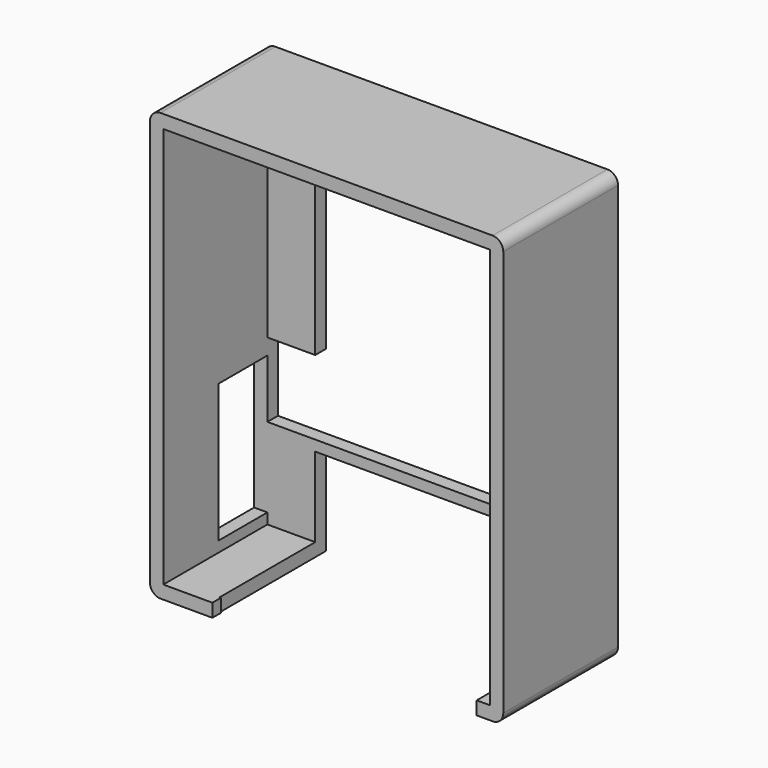
from build123d import *

# Parameters (mm, degrees)
F0_W      = 66.5
F0_H      = 80.5
F1_DEPTH  = 27
F2_T      = -2.5
F3_R      = 2
F4_W      = 49.75
F4_H      = 24.5
F5_DEPTH  = 25
F6_W      = 45.5
F6_H      = 48.5
F7_DEPTH  = 25
F8_W      = 48
F8_H      = 17.5
F9_DEPTH  = 25
F10_W     = 11.5
F10_H     = 26
F11_DEPTH = 25
F12_W     = 9
F12_H     = 14
F13_DEPTH = 25


with BuildPart() as f1:
    # F0 (on Front) → F1 (new body)
    with BuildSketch(Plane.XZ):
        with Locations((30.75, 37.75)):
            Rectangle(F0_W, F0_H)
        with Locations((30.75, 37.75)):
            Rectangle(F0_W, F0_H)
    extrude(amount=F1_DEPTH)

    # F2
    f2_openings = [f1.faces().sort_by_distance(p)[0] for p in [
        (30.75, -27, 37.75),
    ]]
    offset(amount=F2_T, openings=f2_openings)

    # F3
    f3_edges = [f1.edges().sort_by_distance(p)[0] for p in [
        (64, -13.5, 78),
        (-2.5, -13.5, 78),
        (64, -13.5, -2.5),
        (-2.5, -13.5, -2.5),
    ]]
    fillet(f3_edges, radius=F3_R)

    # F4 (on face) → F5 (cut)
    with BuildSketch(Plane.XY):
        with Locations((34.125, -14.75)):
            Rectangle(F4_W, F4_H)
    extrude(amount=-F5_DEPTH, mode=Mode.SUBTRACT)

    # F6 (on face) → F7 (cut)
    with BuildSketch(Plane.XZ.offset(2.5)):
        with Locations((31.75, 41.25)):
            Rectangle(F6_W, F6_H)
    extrude(amount=-F7_DEPTH, mode=Mode.SUBTRACT)

    # F8 (on face) → F9 (cut)
    with BuildSketch(Plane(origin=(0, 0, 0), x_dir=(-1, 0, 0), z_dir=(0, 1, 0))):
        with Locations((-33, 6.25)):
            Rectangle(F8_W, F8_H)
    extrude(amount=-F9_DEPTH, mode=Mode.SUBTRACT)

    # F10 (on face) → F11 (cut)
    with BuildSketch(Plane(origin=(-2.5, 0, 0), x_dir=(0, -1, 0), z_dir=(-1, 0, 0))):
        with Locations((8.25, 15)):
            Rectangle(F10_W, F10_H)
    extrude(amount=-F11_DEPTH, mode=Mode.SUBTRACT)

    # F12 (on face) → F13 (cut)
    with BuildSketch(Plane.XZ.offset(2.5)):
        with Locations((4.5, 24)):
            Rectangle(F12_W, F12_H)
    extrude(amount=-F13_DEPTH, mode=Mode.SUBTRACT)


solid = f1.part
